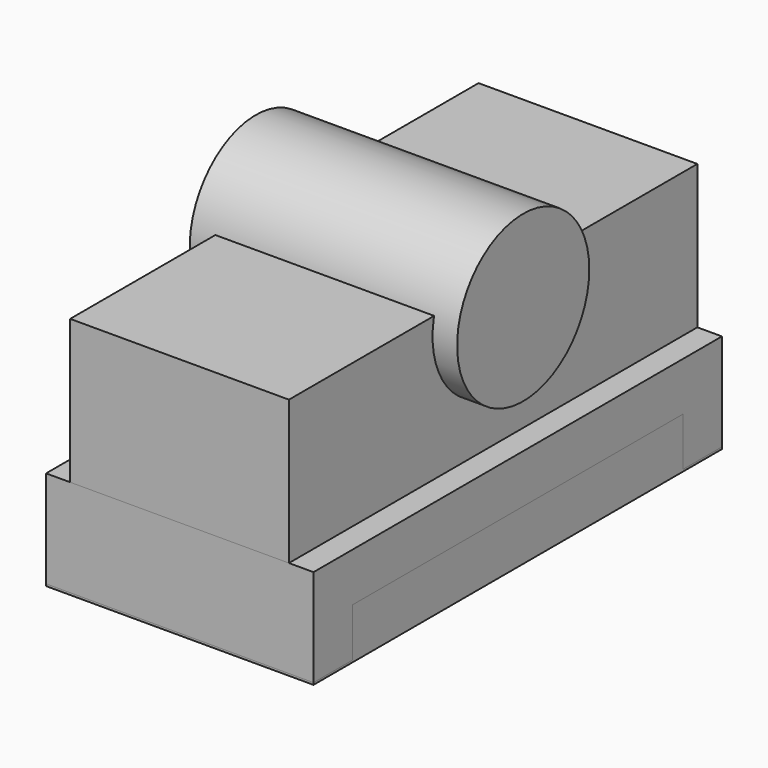
from build123d import *

# Parameters (mm, degrees)
F0_W     = 45
F0_H     = 30
F1_DEPTH = 105
F2_W     = 85
F2_H     = 10
F2_R     = 16.983117
F3_DEPTH = 55


with BuildPart() as f1:
    # F0 (on Front) → F1 (new body)
    with BuildSketch(Plane.XZ):
        with Locations((-27.553475, -15)):
            Rectangle(F0_W, F0_H)
        Polygon((-55, -30), (-55, -50), (0, -50), (0, -30), (-5.053475, -30), (-50.053475, -30), align=None)
    extrude(amount=-F1_DEPTH)


with BuildPart() as f3:
    # F2 (on Right) → F3 (new body)
    with BuildSketch(Plane.YZ):
        Polygon((10, -29.583803), (0, -29.583803), (0, -49.583803), (10, -49.583803), (10, -39.583803), align=None)
        with Locations((52.5, -34.583803)):
            Rectangle(F2_W, F2_H)
        Polygon((105, -29.583803), (95, -29.583803), (95, -39.583803), (95, -49.583803), (105, -49.583803), align=None)
        with Locations((53.90935, -3.582773)):
            Circle(F2_R)
    extrude(amount=-F3_DEPTH)


solid = Compound([f1.part, f3.part])
